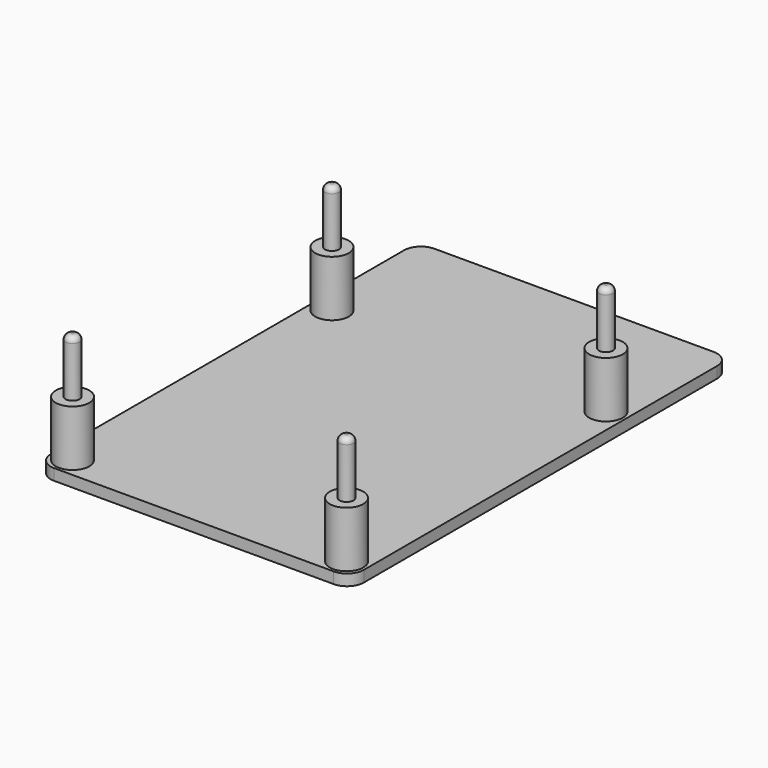
from build123d import *

# Parameters (mm, degrees)
F0_W     = 56
F0_H     = 85
F1_DEPTH = 2
F2_R     = 3
F3_R     = 1.25
F5_DEPTH = 20
F4_R     = 3
F6_DEPTH = 10
F7_R     = 1


with BuildPart() as f1:
    # F0 (on Top) → F1 (new body)
    with BuildSketch(Plane.XY):
        Rectangle(F0_W, F0_H)
    extrude(amount=F1_DEPTH)

    # F2
    f2_edges = [f1.edges().sort_by_distance(p)[0] for p in [
        (-28, 42.5, 1),
        (28, 42.5, 1),
        (28, -42.5, 1),
        (-28, -42.5, 1),
    ]]
    fillet(f2_edges, radius=F2_R)


with BuildPart() as f5:
    # F3 (on face) → F5 (new body)
    with BuildSketch(Plane.XY.offset(2)):
        with Locations((-24.5, -39)):
            Circle(F3_R)
        with Locations((24.5, -39)):
            Circle(F3_R)
        with Locations((-24.5, 19)):
            Circle(F3_R)
        with Locations((24.5, 19)):
            Circle(F3_R)
    extrude(amount=F5_DEPTH)

    # F7
    f7_edges = [f5.edges().sort_by_distance(p)[0] for p in [
        (-25.75, 19, 22),
        (-25.75, -39, 22),
        (23.25, -39, 22),
        (23.25, 19, 22),
    ]]
    fillet(f7_edges, radius=F7_R)


with BuildPart() as f6:
    # F4 (on face) → F6 (new body)
    with BuildSketch(Plane.XY.offset(2)):
        with Locations((-24.5, 19)):
            Circle(F4_R)
        with Locations((24.5, 19)):
            Circle(F4_R)
        with Locations((-24.5, -39)):
            Circle(F4_R)
        with Locations((24.5, -39)):
            Circle(F4_R)
    extrude(amount=F6_DEPTH)


solid = Compound([f1.part, f5.part, f6.part])
